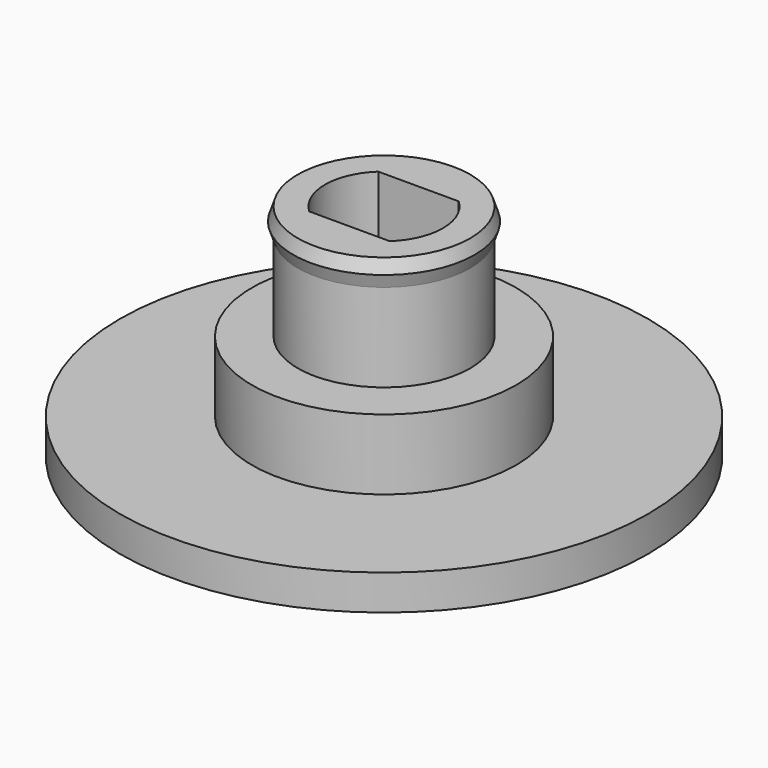
from build123d import *

# Parameters (mm, degrees)
F3_R     = 15
F3_R_2   = 7.5
F3_R_3   = 4.9
F4_DEPTH = 2
F5_DEPTH = 6
F6_DEPTH = 12.5


with BuildPart() as f4:
    # F3 (on Top) → F4 (new body)
    with BuildSketch(Plane.XY):
        Circle(F3_R)
        Circle(F3_R_2, mode=Mode.SUBTRACT)
        Circle(F3_R_2)
        Circle(F3_R_3, mode=Mode.SUBTRACT)
        Circle(F3_R_3)
        with BuildLine():
            ThreePointArc((-2.2847319318, -2.45), (-3.35, 0), (-2.2847319318, 2.45))
            Line((-2.2847319318, 2.45), (2.2847319318, 2.45))
            ThreePointArc((2.2847319318, 2.45), (3.35, 0), (2.2847319318, -2.45))
            Line((2.2847319318, -2.45), (-2.2847319318, -2.45))
        make_face(mode=Mode.SUBTRACT)
    extrude(amount=F4_DEPTH)

    # F3 (on Top) → F5 (join)
    with BuildSketch(Plane.XY):
        Circle(F3_R_2)
        Circle(F3_R_3, mode=Mode.SUBTRACT)
        Circle(F3_R_3)
        with BuildLine():
            ThreePointArc((-2.2847319318, -2.45), (-3.35, 0), (-2.2847319318, 2.45))
            Line((-2.2847319318, 2.45), (2.2847319318, 2.45))
            ThreePointArc((2.2847319318, 2.45), (3.35, 0), (2.2847319318, -2.45))
            Line((2.2847319318, -2.45), (-2.2847319318, -2.45))
        make_face(mode=Mode.SUBTRACT)
    extrude(amount=F5_DEPTH)

    # F3 (on Top) → F6 (join)
    with BuildSketch(Plane.XY):
        Circle(F3_R_3)
        with BuildLine():
            ThreePointArc((-2.2847319318, -2.45), (-3.35, 0), (-2.2847319318, 2.45))
            Line((-2.2847319318, 2.45), (2.2847319318, 2.45))
            ThreePointArc((2.2847319318, 2.45), (3.35, 0), (2.2847319318, -2.45))
            Line((2.2847319318, -2.45), (-2.2847319318, -2.45))
        make_face(mode=Mode.SUBTRACT)
    extrude(amount=F6_DEPTH)

    # F7 (on Front) → F8 (revolve)
    with BuildSketch(Plane.XZ):
        Polygon((5.15, 11.75), (4.9, 12.5), (4.9, 11), align=None)
    revolve(axis=Axis((0, 0, 8.7542282417), (0, 0, 1)))


solid = f4.part
